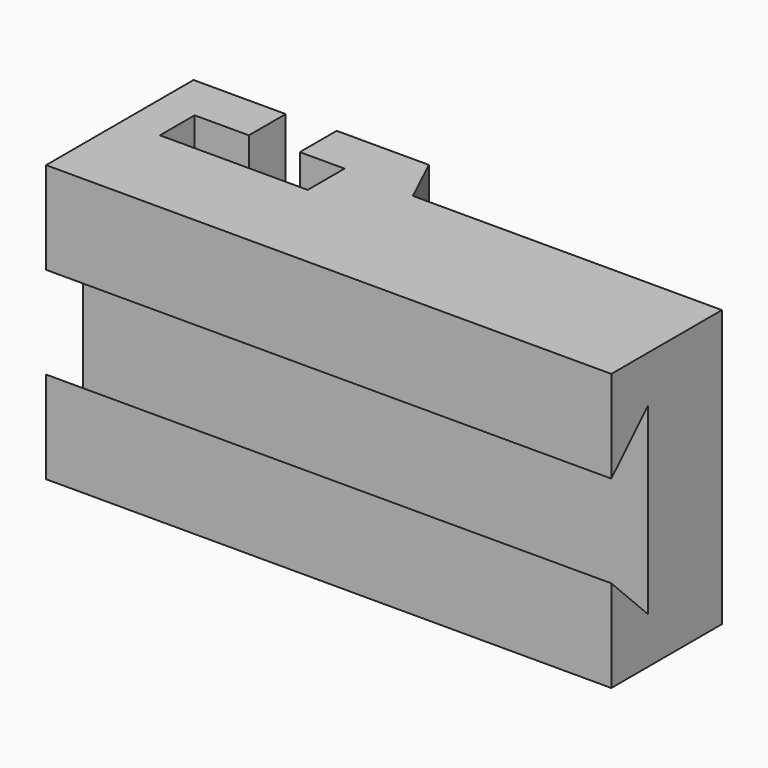
from build123d import *

# Parameters (mm, degrees)
F1_DEPTH = 76.2
F3_DEPTH = 155.762753


with BuildPart() as f1:
    # F0 (on Top) → F1 (new body)
    with BuildSketch(Plane.XY):
        Polygon((-76.298468, 36.361391), (-101.698468, 36.361391), (-101.698468, -14.438609), (54.063285, -14.438609), (54.063285, 23.661391), (-31.101416, 23.661391), (-37.451416, 37.10845), (-62.851416, 37.10845), (-62.851416, 24.40845), (-50.524947, 24.40845), (-50.524947, 11.70845), (-91.239653, 11.70845), (-91.239653, 23.661391), (-76.298468, 23.661391), align=None)
    extrude(amount=F1_DEPTH)

    # F2 (on face) → F3 (cut, through all)
    with BuildSketch(Plane.YZ.offset(54.063285)):
        Polygon((-14.438609, 50.8), (-14.438609, 25.4), (-1.738609, 12.7), (-1.738609, 63.5), align=None)
    extrude(amount=-F3_DEPTH, mode=Mode.SUBTRACT)


solid = f1.part
